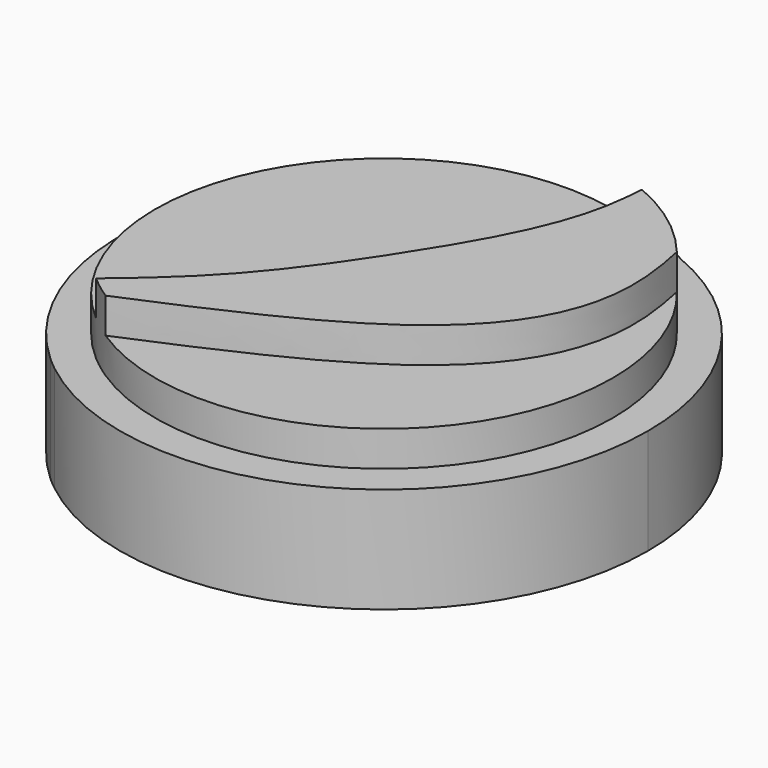
from build123d import *

# Parameters (mm, degrees)
F1_DEPTH = 3
F2_DEPTH = 4
F3_DEPTH = 5


with BuildPart() as f1:
    # F0 (on Top) → F1 (new body)
    with BuildSketch(Plane.XY):
        with BuildLine():
            ThreePointArc((-4.6512770507, -5.8835042107), (3.2684416868, -6.750354727), (7.5, 0))
            ThreePointArc((7.5, 0), (6.7340096327, 3.3019864123), (4.5925028622, 5.9294955486))
            ThreePointArc((4.5925028622, 5.9294955486), (4.5757009883, 5.9424709057), (4.5588624549, 5.9553986531))
            add(Edge.make_bspline(
                [(5.023105082, 4.1253382086), (4.8092727011, 5.1100586092), (4.527040183, 5.9204651186), (4.5588624549, 5.9553986531)],
                knots=[0.8306208955, 0.8306208955, 0.8306208955, 0.8306208955, 0.9756992936, 0.9756992936, 0.9756992936, 0.9756992936], degree=3))
            ThreePointArc((5.023105082, 4.1253382086), (6.1196479896, 2.1908693443), (6.5, 0))
            ThreePointArc((6.5, 0), (3.0889160794, -5.7191430699), (-3.5641838321, -5.4356778428))
            add(Edge.make_bspline(
                [(-4.6512770507, -5.8835042107), (-4.2900632598, -5.7354905481), (-3.928715743, -5.5872181197), (-3.5641838321, -5.4356778428)],
                knots=[0, 0, 0, 0, 0.0706710697, 0.0706710697, 0.0706710697, 0.0706710697], degree=3))
        make_face()
        with BuildLine():
            ThreePointArc((4.5588624549, 5.9553986531), (4.5757009883, 5.9424709057), (4.5925028622, 5.9294955486))
            add(Edge.make_bspline(
                [(4.5588624549, 5.9553986531), (4.5641927018, 5.9612500381), (4.5783342026, 5.9453444257), (4.5925028622, 5.9294955486)],
                knots=[0.9756992936, 0.9756992936, 0.9756992936, 0.9756992936, 1, 1, 1, 1], degree=3))
        make_face()
        with BuildLine():
            ThreePointArc((-5.0316628164, -5.5616876308), (-4.8441431229, -5.7257556187), (-4.6512770507, -5.8835042107))
            add(Edge.make_bspline(
                [(-4.6512770507, -5.8835042107), (-4.2900632598, -5.7354905481), (-3.928715743, -5.5872181197), (-3.5641838321, -5.4356778428)],
                knots=[0, 0, 0, 0, 0.0706710697, 0.0706710697, 0.0706710697, 0.0706710697], degree=3))
            ThreePointArc((-3.5641838321, -5.4356778428), (-3.9139668667, -5.1894954828), (-4.2468013663, -4.920841204))
            add(Edge.make_bspline(
                [(-5.0316628164, -5.5616876308), (-4.7695889387, -5.3492466161), (-4.5073526376, -5.1366155732), (-4.2468013663, -4.920841204)],
                knots=[0, 0, 0, 0, 0.0643179691, 0.0643179691, 0.0643179691, 0.0643179691], degree=3))
        make_face()
        with BuildLine():
            add(Edge.make_bspline(
                [(5.023105082, 4.1253382086), (4.8092727011, 5.1100586092), (4.527040183, 5.9204651186), (4.5588624549, 5.9553986531)],
                knots=[0.8306208955, 0.8306208955, 0.8306208955, 0.8306208955, 0.9756992936, 0.9756992936, 0.9756992936, 0.9756992936], degree=3))
            ThreePointArc((4.5588624549, 5.9553986531), (3.7441973902, 6.4985372125), (2.8657193097, 6.9309200571))
            ThreePointArc((2.8657193097, 6.9309200571), (2.7819893161, 6.9649504984), (2.6978553142, 6.99796947))
            add(Edge.make_bspline(
                [(2.5499079288, 5.9789605748), (2.5902453757, 6.5226766795), (2.603911247, 6.9348960376), (2.6978553142, 6.99796947)],
                knots=[0.8367623992, 0.8367623992, 0.8367623992, 0.8367623992, 0.947721835, 0.947721835, 0.947721835, 0.947721835], degree=3))
            ThreePointArc((2.5499079288, 5.9789605748), (3.8982830175, 5.2012872941), (5.023105082, 4.1253382086))
        make_face()
        with BuildLine():
            ThreePointArc((2.6978553142, 6.99796947), (-6.3873242431, 3.9309145263), (-5.0316628164, -5.5616876308))
            add(Edge.make_bspline(
                [(-5.0316628164, -5.5616876308), (-4.7695889387, -5.3492466161), (-4.5073526376, -5.1366155732), (-4.2468013663, -4.920841204)],
                knots=[0, 0, 0, 0, 0.0643179691, 0.0643179691, 0.0643179691, 0.0643179691], degree=3))
            ThreePointArc((-4.2468013663, -4.920841204), (-5.5155490696, 3.4392904008), (2.5499079288, 5.9789605748))
            add(Edge.make_bspline(
                [(2.5499079288, 5.9789605748), (2.5902453757, 6.5226766795), (2.603911247, 6.9348960376), (2.6978553142, 6.99796947)],
                knots=[0.8367623992, 0.8367623992, 0.8367623992, 0.8367623992, 0.947721835, 0.947721835, 0.947721835, 0.947721835], degree=3))
        make_face()
        with BuildLine():
            ThreePointArc((2.6978553142, 6.99796947), (2.7819893161, 6.9649504984), (2.8657193097, 6.9309200571))
            add(Edge.make_bspline(
                [(2.6978553142, 6.99796947), (2.7421167455, 7.0276863056), (2.8041982628, 6.9799000242), (2.8657193097, 6.9309200571)],
                knots=[0.947721835, 0.947721835, 0.947721835, 0.947721835, 1, 1, 1, 1], degree=3))
        make_face()
    extrude(amount=F1_DEPTH)

    # F0 (on Top) → F2 (join)
    with BuildSketch(Plane.XY):
        with BuildLine():
            ThreePointArc((2.5499079288, 5.9789605748), (-5.5155490696, 3.4392904008), (-4.2468013663, -4.920841204))
            add(Edge.make_bspline(
                [(-4.2468013663, -4.920841204), (-3.5341805064, -4.3306874282), (-1.8083867278, -2.8177742323), (0.4891946402, 0.4568857751), (2.3494442904, 3.7188761281), (2.5242955811, 5.6337268784), (2.5499079288, 5.9789605748)],
                knots=[0.0643179691, 0.0643179691, 0.0643179691, 0.0643179691, 0.2402308565, 0.4980071555, 0.7663084696, 0.8367623992, 0.8367623992, 0.8367623992, 0.8367623992], degree=3))
        make_face()
        with BuildLine():
            add(Edge.make_bspline(
                [(-3.5641838321, -5.4356778428), (-2.691011307, -5.0726895768), (-0.3985062942, -4.0909828194), (3.8347343504, -1.9210278531), (5.5329932743, 1.2110813852), (5.1336844397, 3.6161087413), (5.023105082, 4.1253382086)],
                knots=[0.0706710697, 0.0706710697, 0.0706710697, 0.0706710697, 0.239951274, 0.5060052495, 0.7555963551, 0.8306208955, 0.8306208955, 0.8306208955, 0.8306208955], degree=3))
            ThreePointArc((-3.5641838321, -5.4356778428), (3.0889160794, -5.7191430699), (6.5, 0))
            ThreePointArc((6.5, 0), (6.1196479896, 2.1908693443), (5.023105082, 4.1253382086))
        make_face()
    extrude(amount=F2_DEPTH)

    # F0 (on Top) → F3 (join)
    with BuildSketch(Plane.XY):
        with BuildLine():
            ThreePointArc((-4.2468013663, -4.920841204), (-3.9139668667, -5.1894954828), (-3.5641838321, -5.4356778428))
            add(Edge.make_bspline(
                [(-3.5641838321, -5.4356778428), (-2.691011307, -5.0726895768), (-0.3985062942, -4.0909828194), (3.8347343504, -1.9210278531), (5.5329932743, 1.2110813852), (5.1336844397, 3.6161087413), (5.023105082, 4.1253382086)],
                knots=[0.0706710697, 0.0706710697, 0.0706710697, 0.0706710697, 0.239951274, 0.5060052495, 0.7555963551, 0.8306208955, 0.8306208955, 0.8306208955, 0.8306208955], degree=3))
            ThreePointArc((5.023105082, 4.1253382086), (3.8982830175, 5.2012872941), (2.5499079288, 5.9789605748))
            add(Edge.make_bspline(
                [(-4.2468013663, -4.920841204), (-3.5341805064, -4.3306874282), (-1.8083867278, -2.8177742323), (0.4891946402, 0.4568857751), (2.3494442904, 3.7188761281), (2.5242955811, 5.6337268784), (2.5499079288, 5.9789605748)],
                knots=[0.0643179691, 0.0643179691, 0.0643179691, 0.0643179691, 0.2402308565, 0.4980071555, 0.7663084696, 0.8367623992, 0.8367623992, 0.8367623992, 0.8367623992], degree=3))
        make_face()
    extrude(amount=F3_DEPTH)


solid = f1.part
